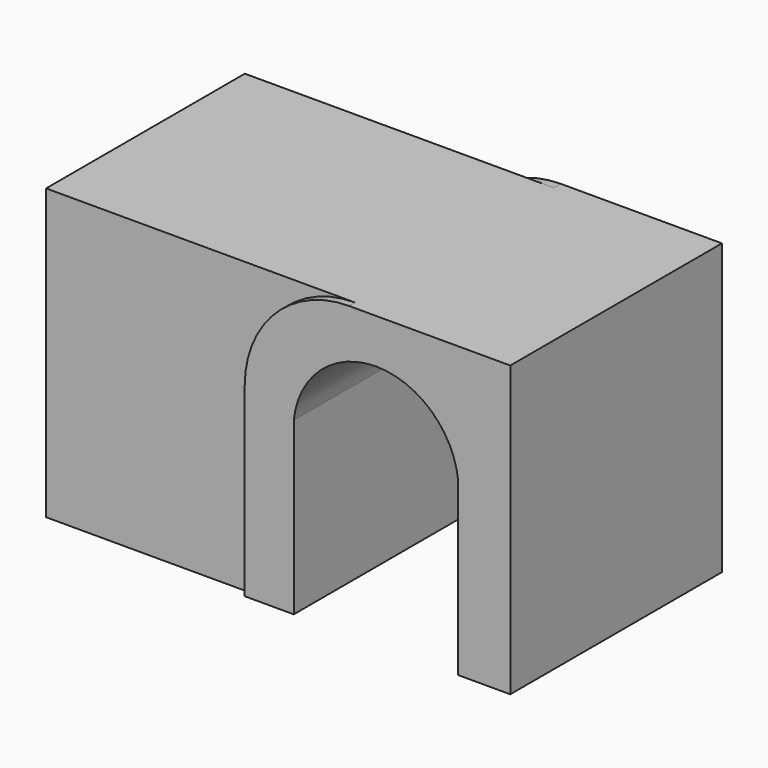
from build123d import *

# Parameters (mm, degrees)
F0_W          = 41.1777616951
F0_H          = 58.2677274942
F1_DEPTH      = 25
F1_DEPTH_BACK = 25
F2_DEPTH      = 26.5
F2_DEPTH_BACK = 26.75
F3_R          = 21
F4_R          = 21


with BuildPart() as f1:
    # F0 (on Front) → F1 (new body, two sides)
    with BuildSketch(Plane.XZ) as f1_sk:
        with Locations((-26.726005576, 0)):
            Rectangle(F0_W, F0_H)
    extrude(amount=F1_DEPTH)
    extrude(f1_sk.sketch, amount=-F1_DEPTH_BACK)

    # F0 (on Front) → F2 (join, two sides)
    with BuildSketch(Plane.XZ) as f2_sk:
        with BuildLine():
            Line((47.3148864236, 29.1338637471), (-6.1371247284, 29.1338637471))
            Line((-6.1371247284, 29.1338637471), (-6.1371247284, -29.1338637471))
            Line((-6.1371247284, -29.1338637471), (3.736696206, -29.1338637471))
            Line((3.736696206, -29.1338637471), (3.736696206, 5.2775406944))
            ThreePointArc((3.736696206, 5.2775406944), (20.2848818153, 20.1810889299), (36.8330674246, 5.2775406944))
            Line((36.8330674246, 5.2775406944), (36.8330674246, -29.1338637471))
            Line((36.8330674246, -29.1338637471), (47.3148864236, -29.1338637471))
            Line((47.3148864236, -29.1338637471), (47.3148864236, 29.1338637471))
        make_face()
    extrude(amount=F2_DEPTH)
    extrude(f2_sk.sketch, amount=-F2_DEPTH_BACK)

    # F3
    f3_edges = [f1.edges().sort_by_distance(p)[0] for p in [
        (-6.137125, -25.75, 29.133864),
    ]]
    fillet(f3_edges, radius=F3_R)

    # F4
    f4_edges = [f1.edges().sort_by_distance(p)[0] for p in [
        (-6.137125, 25.875, 29.133864),
    ]]
    fillet(f4_edges, radius=F4_R)


solid = f1.part
